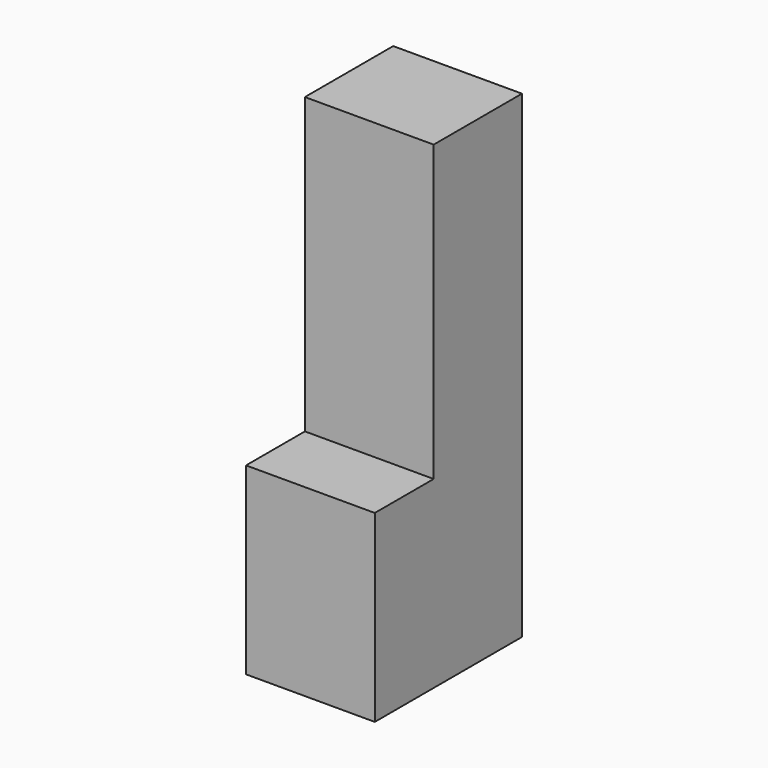
from build123d import *

# Parameters (mm, degrees)
F0_W     = 350
F0_H     = 500
F1_DEPTH = 500
F2_W     = 300
F2_H     = 800
F3_DEPTH = 350


with BuildPart() as f1:
    # F0 (on Front) → F1 (new body)
    with BuildSketch(Plane.XZ):
        with Locations((175, -250)):
            Rectangle(F0_W, F0_H)
    extrude(amount=F1_DEPTH)

    # F2 (on face) → F3 (join)
    with BuildSketch(Plane(origin=(0, 0, 0), x_dir=(0, -1, 0), z_dir=(-1, 0, 0))):
        with Locations((150, 400)):
            Rectangle(F2_W, F2_H)
    extrude(amount=-F3_DEPTH)


solid = f1.part
